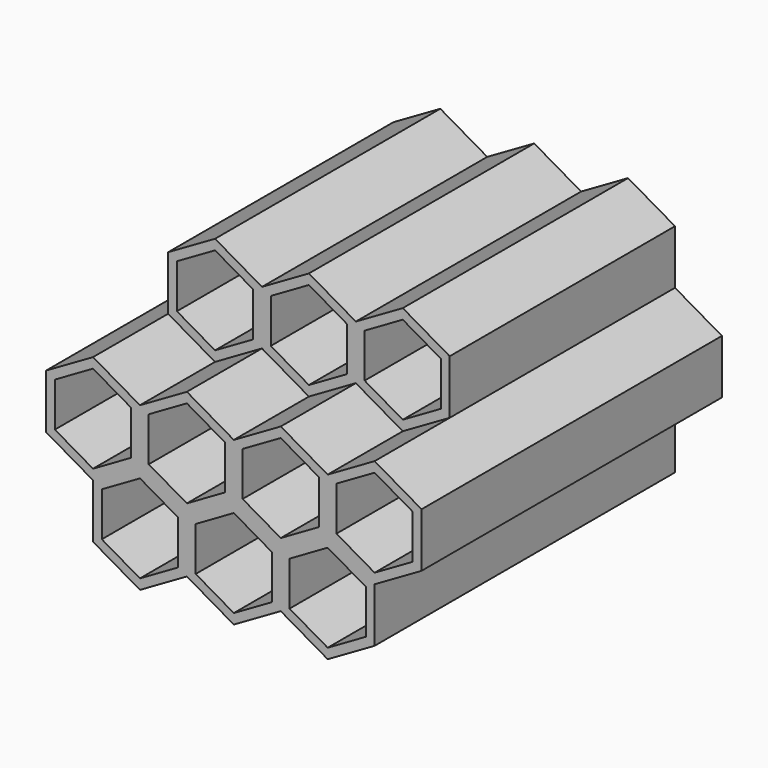
from build123d import *

# Parameters (mm, degrees)
F1_DEPTH = 101.6
F2_DEPTH = 76.2


with BuildPart() as f1:
    # F0 (on Front) → F1 (new body)
    with BuildSketch(Plane.XZ):
        Polygon((-38.1, 14.664697), (-50.8, 7.332348), (-50.8, 0), (-50.8, -7.332348), (-38.1, -14.664697), (-38.1, -29.329394), (-25.4, -36.661742), (-12.7, -29.329394), (0, -36.661742), (12.7, -29.329394), (25.4, -36.661742), (38.1, -29.329394), (38.1, -14.664697), (50.8, -7.332348), (50.8, 0), (50.8, 7.332348), (38.1, 14.664697), (25.4, 7.332348), (12.7, 14.664697), (0, 7.332348), (-12.7, 14.664697), (-25.4, 7.332348), align=None)
        Polygon((-15.08125, -27.954578), (-25.4, -33.912111), (-35.71875, -27.954578), (-35.71875, -16.039512), (-25.4, -10.081979), (-15.08125, -16.039512), align=None, mode=Mode.SUBTRACT)
        Polygon((-10.31875, -16.039512), (0, -10.081979), (10.31875, -16.039512), (10.31875, -27.954578), (0, -33.912111), (-10.31875, -27.954578), align=None, mode=Mode.SUBTRACT)
        Polygon((-48.41875, 0), (-48.41875, 5.957533), (-38.1, 11.915066), (-27.78125, 5.957533), (-27.78125, 0), (-27.78125, -5.957533), (-38.1, -11.915066), (-48.41875, -5.957533), align=None, mode=Mode.SUBTRACT)
        Polygon((25.4, -10.081979), (35.71875, -16.039512), (35.71875, -27.954578), (25.4, -33.912111), (15.08125, -27.954578), (15.08125, -16.039512), align=None, mode=Mode.SUBTRACT)
        Polygon((48.41875, 0), (48.41875, -5.957533), (38.1, -11.915066), (27.78125, -5.957533), (27.78125, 0), (27.78125, 5.957533), (38.1, 11.915066), (48.41875, 5.957533), align=None, mode=Mode.SUBTRACT)
        Polygon((-12.7, 11.915066), (-2.38125, 5.957533), (-2.38125, 0), (-2.38125, -5.957533), (-12.7, -11.915066), (-23.01875, -5.957533), (-23.01875, 0), (-23.01875, 5.957533), align=None, mode=Mode.SUBTRACT)
        Polygon((23.01875, 5.957533), (23.01875, 0), (23.01875, -5.957533), (12.7, -11.915066), (2.38125, -5.957533), (2.38125, 0), (2.38125, 5.957533), (12.7, 11.915066), align=None, mode=Mode.SUBTRACT)
    extrude(amount=F1_DEPTH)

    # F0 (on Front) → F2 (join)
    with BuildSketch(Plane.XZ):
        Polygon((-38.1, 29.329394), (-38.1, 14.664697), (-25.4, 7.332348), (-12.7, 14.664697), (-12.7, 29.329394), (-25.4, 36.661742), align=None)
        Polygon((-15.08125, 27.954578), (-15.08125, 16.039512), (-25.4, 10.081979), (-35.71875, 16.039512), (-35.71875, 27.954578), (-25.4, 33.912111), align=None, mode=Mode.SUBTRACT)
        Polygon((-12.7, 29.329394), (-12.7, 14.664697), (0, 7.332348), (12.7, 14.664697), (12.7, 29.329394), (0, 36.661742), align=None)
        Polygon((-10.31875, 16.039512), (-10.31875, 27.954578), (0, 33.912111), (10.31875, 27.954578), (10.31875, 16.039512), (0, 10.081979), align=None, mode=Mode.SUBTRACT)
        Polygon((12.7, 29.329394), (12.7, 14.664697), (25.4, 7.332348), (38.1, 14.664697), (38.1, 29.329394), (25.4, 36.661742), align=None)
        Polygon((15.08125, 16.039512), (15.08125, 27.954578), (25.4, 33.912111), (35.71875, 27.954578), (35.71875, 16.039512), (25.4, 10.081979), align=None, mode=Mode.SUBTRACT)
    extrude(amount=F2_DEPTH)


solid = f1.part
